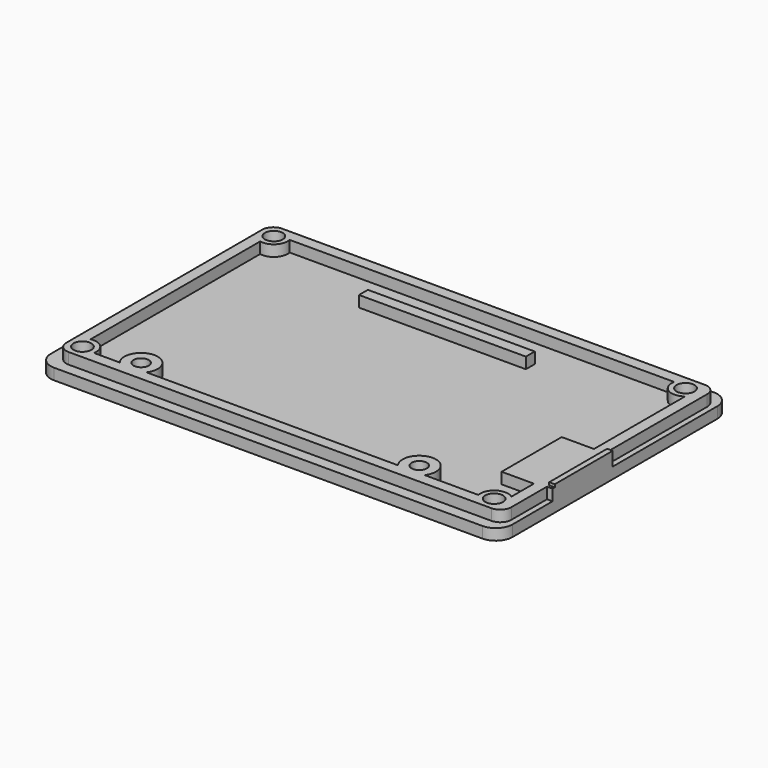
from build123d import *

# Parameters (mm, degrees)
SKETCH_W             = 83
SKETCH_H             = 52
PAD_DEPTH            = 2
SKETCH001_W          = 30
SKETCH001_H          = 2
PAD001_DEPTH         = 2
SKETCH005_R          = 1.6
POCKET_DEPTH         = 5
POCKET_DEPTH_BACK    = -5
SKETCH003_R          = 1.375
POCKET001_DEPTH      = 2
POCKET001_DEPTH_BACK = 1.5
SKETCH004_W          = 1
SKETCH004_H          = 13
PAD002_DEPTH         = 2.5
CHAMFER_SIZE         = 1.95
FILLET_R             = 3
FILLET001_R          = 2


with BuildPart() as part:
    # Sketch → Pad (new body)
    with BuildSketch(Plane.XY):
        with Locations((41.5, 26)):
            Rectangle(SKETCH_W, SKETCH_H)
    extrude(amount=-PAD_DEPTH)

    # Sketch001 → Pad001 (join)
    with BuildSketch(Plane.XY):
        Polygon((2, 2), (2, 50), (82, 50), (82, 25.5), (83, 25.5), (83, 12), (82, 12), (82, 2), align=None)
        with BuildLine():
            Line((6.95, 47.997494), (76.05, 47.997494))
            ThreePointArc((76.05, 47.997494), (77.163963, 45.386944), (80, 45.5))
            Line((80, 25.05), (80, 45.5))
            Line((80, 25.05), (74.2, 25.05))
            Line((74.2, 25.05), (74.2, 11.55))
            Line((74.2, 11.55), (80, 11.55))
            Line((80, 11.55), (80, 6.5))
            ThreePointArc((80, 6.5), (77.163963, 6.613056), (76.05, 4.002506))
            Line((76.05, 4.002506), (66.401878, 4.002506))
            ThreePointArc((66.401878, 4.002506), (63.996871, 8.799998), (61.601878, 3.997499))
            Line((61.601878, 3.997499), (16.401878, 4.002506))
            ThreePointArc((16.401878, 4.002506), (13.996871, 8.799998), (11.601878, 3.997499))
            Line((11.601878, 3.997499), (6.951878, 3.9995))
            ThreePointArc((6.951878, 3.9995), (6.270443, 6.267581), (4.002506, 6.949493))
            Line((4.002506, 45.05), (4.002506, 6.949493))
            ThreePointArc((4.002506, 45.05), (6.267767, 45.732233), (6.95, 47.997494))
        make_face(mode=Mode.SUBTRACT)
        with Locations((40, 42)):
            Rectangle(SKETCH001_W, SKETCH001_H)
    extrude(amount=PAD001_DEPTH)

    # Sketch005 → Pocket (cut, two sides)
    with BuildSketch(Plane.XY) as pocket_sk:
        with Locations((4.5, 47.5)):
            Circle(SKETCH005_R)
        with Locations((78.5, 47.5)):
            Circle(SKETCH005_R)
        with Locations((78.5, 4.5)):
            Circle(SKETCH005_R)
        with Locations((4.5, 4.5)):
            Circle(SKETCH005_R)
    extrude(amount=-POCKET_DEPTH, mode=Mode.SUBTRACT)
    extrude(pocket_sk.sketch, amount=-POCKET_DEPTH_BACK, mode=Mode.SUBTRACT)

    # Sketch003 → Pocket001 (cut, two sides)
    with BuildSketch(Plane.XY.offset(0.5)) as pocket001_sk:
        with Locations((14, 5.8)):
            Circle(SKETCH003_R)
        with Locations((64, 5.8)):
            Circle(SKETCH003_R)
    extrude(amount=POCKET001_DEPTH, mode=Mode.SUBTRACT)
    extrude(pocket001_sk.sketch, amount=-POCKET001_DEPTH_BACK, mode=Mode.SUBTRACT)

    # Sketch004 → Pad002 (join)
    with BuildSketch(Plane.XY):
        with Locations((82.5, 19)):
            Rectangle(SKETCH004_W, SKETCH004_H)
    extrude(amount=PAD002_DEPTH)

    # Chamfer
    chamfer_edges = [part.edges().sort_by_distance(p)[0] for p in [
        (2.9, 47.5, -2),
        (2.9, 4.5, -2),
        (76.9, 4.5, -2),
        (76.9, 47.5, -2),
    ]]
    chamfer(chamfer_edges, length=CHAMFER_SIZE)

    # Fillet
    fillet_edges = [part.edges().sort_by_distance(p)[0] for p in [
        (83, 52, -1),
        (0, 52, -1),
        (0, 0, -1),
        (83, 0, -1),
    ]]
    fillet(fillet_edges, radius=FILLET_R)

    # Fillet001
    fillet001_edges = [part.edges().sort_by_distance(p)[0] for p in [
        (82, 2, 1),
        (2, 2, 1),
        (82, 50, 1),
        (2, 50, 1),
    ]]
    fillet(fillet001_edges, radius=FILLET001_R)


solid = part.part
